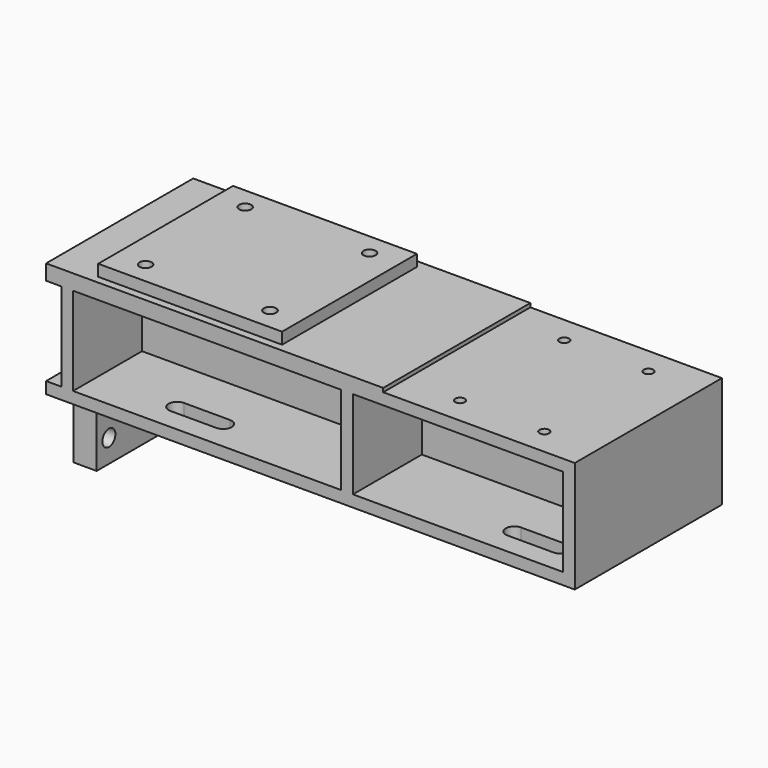
from build123d import *

# Parameters (mm, degrees)
F0_W      = 438.15
F0_H      = 152.4
F1_DEPTH  = 12.7
F2_W      = 152.4
F2_H      = 139.7
F3_DEPTH  = 9.525
F4_W      = 9.652
F4_H      = 71.4375
F4_H_2    = 9.525
F4_W_2    = 12.7
F4_W_3    = 222.25
F4_W_4    = 174.244
F5_DEPTH  = 73.152
F6_W      = 438.15
F6_H      = 152.4
F7_DEPTH  = 9.652
F9_DEPTH  = 25.4
F11_D     = 10.0838
F11_DEPTH = 38.1
F11_TIP   = 3.0294791551
F12_W     = 158.75
F12_H     = 152.4
F13_DEPTH = 3.175
F15_D     = 7.9375
F15_DEPTH = 38.1
F15_TIP   = 2.3846655818
F16_W     = 19.05
F16_H     = 127
F17_DEPTH = 50.8
F19_D     = 13.49248
F19_DEPTH = 21.2274727273
F19_TIP   = 4.0535499425


with BuildPart() as f1:
    # F0 (on Top) → F1 (new body)
    with BuildSketch(Plane.XY):
        Rectangle(F0_W, F0_H)
    extrude(amount=-F1_DEPTH)

    # F2 (on face) → F3 (join)
    with BuildSketch(Plane.XY):
        with Locations((-104.775, 0)):
            Rectangle(F2_W, F2_H)
    extrude(amount=F3_DEPTH)

    # F4 (on face) → F5 (join)
    with BuildSketch(Plane(origin=(0, 0, -12.7), x_dir=(1, 0, 0), z_dir=(0, 0, -1))):
        with Locations((-201.549, 40.48125)):
            Rectangle(F4_W, F4_H)
        with Locations((-201.549, 0)):
            Rectangle(F4_W, F4_H_2)
        with Locations((-212.725, 0)):
            Rectangle(F4_W_2, F4_H_2)
        with Locations((-85.598, 0)):
            Rectangle(F4_W_3, F4_H_2)
        with Locations((-201.549, -40.48125)):
            Rectangle(F4_W, F4_H)
        with Locations((30.353, 0)):
            Rectangle(F4_W, F4_H_2)
        with Locations((30.353, 40.48125)):
            Rectangle(F4_W, F4_H)
        with Locations((30.353, -40.48125)):
            Rectangle(F4_W, F4_H)
        with Locations((122.301, 0)):
            Rectangle(F4_W_4, F4_H_2)
        with Locations((214.249, 0)):
            Rectangle(F4_W, F4_H_2)
        with Locations((214.249, 40.48125)):
            Rectangle(F4_W, F4_H)
        with Locations((214.249, -40.48125)):
            Rectangle(F4_W, F4_H)
    extrude(amount=F5_DEPTH)

    # F6 (on face) → F7 (join)
    with BuildSketch(Plane(origin=(0, 0, -85.852), x_dir=(1, 0, 0), z_dir=(0, 0, -1))):
        Rectangle(F6_W, F6_H)
    extrude(amount=F7_DEPTH)

    # F8 (on face) → F9 (cut)
    with BuildSketch(Plane(origin=(0, 0, -95.504), x_dir=(1, 0, 0), z_dir=(0, 0, -1))):
        with BuildLine():
            Line((-130.175, 44.45), (-92.075, 44.45))
            ThreePointArc((-92.075, 44.45), (-84.963, 51.562), (-92.075, 58.674))
            Line((-92.075, 58.674), (-130.175, 58.674))
            ThreePointArc((-130.175, 58.674), (-137.287, 51.562), (-130.175, 44.45))
        make_face()
        with BuildLine():
            ThreePointArc((-130.175, -44.45), (-137.287, -51.562), (-130.175, -58.674))
            Line((-130.175, -58.674), (-92.075, -58.674))
            ThreePointArc((-92.075, -58.674), (-84.963, -51.562), (-92.075, -44.45))
            Line((-92.075, -44.45), (-130.175, -44.45))
        make_face()
        with BuildLine():
            Line((187.325, 58.674), (149.225, 58.674))
            ThreePointArc((149.225, 58.674), (142.113, 51.562), (149.225, 44.45))
            Line((149.225, 44.45), (187.325, 44.45))
            ThreePointArc((187.325, 44.45), (194.437, 51.562), (187.325, 58.674))
        make_face()
        with BuildLine():
            ThreePointArc((149.225, -44.45), (142.113, -51.562), (149.225, -58.674))
            Line((149.225, -58.674), (187.325, -58.674))
            ThreePointArc((187.325, -58.674), (194.437, -51.562), (187.325, -44.45))
            Line((187.325, -44.45), (149.225, -44.45))
        make_face()
    extrude(amount=-F9_DEPTH, mode=Mode.SUBTRACT)

    # F11
    with Locations(Plane.XY.offset(9.525)):
        with Locations((-156.337, 51.562), (-53.213, 51.562), (-156.337, -51.562), (-53.213, -51.562)):
            Hole(F11_D / 2, depth=F11_DEPTH)
            with Locations((0, 0, -(F11_DEPTH + F11_TIP / 2))):  # 118° drill point
                Cone(0, F11_D / 2, F11_TIP, mode=Mode.SUBTRACT)

    # F12 (on face) → F13 (cut)
    with BuildSketch(Plane.XY):
        with Locations((139.7, 0)):
            Rectangle(F12_W, F12_H)
    extrude(amount=-F13_DEPTH, mode=Mode.SUBTRACT)

    # F15
    with Locations(Plane.XY.offset(-3.175)):
        with Locations((106.299, 53.848), (176.149, 53.848), (176.149, -54.102), (106.299, -54.102)):
            Hole(F15_D / 2, depth=F15_DEPTH)
            with Locations((0, 0, -(F15_DEPTH + F15_TIP / 2))):  # 118° drill point
                Cone(0, F15_D / 2, F15_TIP, mode=Mode.SUBTRACT)

    # F16 (on face) → F17 (join)
    with BuildSketch(Plane(origin=(0, 0, -95.504), x_dir=(1, 0, 0), z_dir=(0, 0, -1))):
        with Locations((-196.85, 0)):
            Rectangle(F16_W, F16_H)
    extrude(amount=F17_DEPTH)

    # F19
    with Locations(Plane(origin=(-206.375, 0, 0), x_dir=(0, -1, 0), z_dir=(-1, 0, 0))):
        with Locations((50.8, -127.254), (-50.8, -127.254)):
            Hole(F19_D / 2, depth=F19_DEPTH)
            with Locations((0, 0, -(F19_DEPTH + F19_TIP / 2))):  # 118° drill point
                Cone(0, F19_D / 2, F19_TIP, mode=Mode.SUBTRACT)


solid = f1.part
